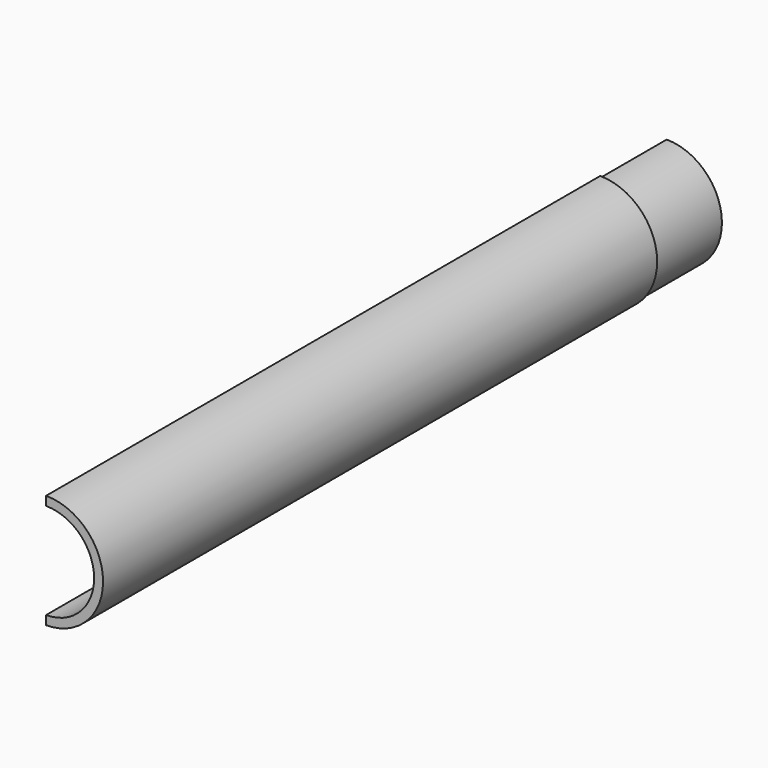
from build123d import *

# Parameters (mm, degrees)
F0_R        = 20.565163
F0_R_2      = 17.333449
F1_DEPTH    = 250
F2_R        = 19.942448
F3_DEPTH    = 5
F4_R        = 19.942448
F4_R_2      = 3.853128
F3_FACE_R   = 19.942448
F3_FACE_R_2 = 17.333449
F5_DEPTH    = 25
F6_R        = 4.28003
F7_DEPTH    = 153
F8_W        = 454.783313
F8_H        = 260.354363
F9_DEPTH    = 142


with BuildPart() as f1:
    # F0 (on Front) → F1 (new body)
    with BuildSketch(Plane.XZ):
        Circle(F0_R)
        Circle(F0_R_2, mode=Mode.SUBTRACT)
    extrude(amount=F1_DEPTH)

    # F2 (on Front) → F3 (join)
    with BuildSketch(Plane.XZ):
        Circle(F2_R)
    extrude(amount=-F3_DEPTH)

    # F4 (on face) + F3_face (on face) → F5 (join)
    with BuildSketch(Plane(origin=(0, 5, 0), x_dir=(-1, 0, 0), z_dir=(0, 1, 0))):
        Circle(F4_R)
        Circle(F4_R_2, mode=Mode.SUBTRACT)
        Circle(F4_R_2)
    with BuildSketch(Plane(origin=(0, 5, 0), x_dir=(1, 0, 0), z_dir=(0, 1, 0))):
        Circle(F3_FACE_R)
        Circle(F3_FACE_R_2)
    extrude(amount=F5_DEPTH)

    # F6 (on face) → F7 (cut)
    with BuildSketch(Plane(origin=(0, 30, 0), x_dir=(-1, 0, 0), z_dir=(0, 1, 0))):
        Circle(F6_R)
    extrude(amount=-F7_DEPTH, mode=Mode.SUBTRACT)

    # F8 (on Right) → F9 (cut)
    with BuildSketch(Plane.YZ):
        with Locations((-137.636367, 25.624771)):
            Rectangle(F8_W, F8_H)
    extrude(amount=-F9_DEPTH, mode=Mode.SUBTRACT)


solid = f1.part
